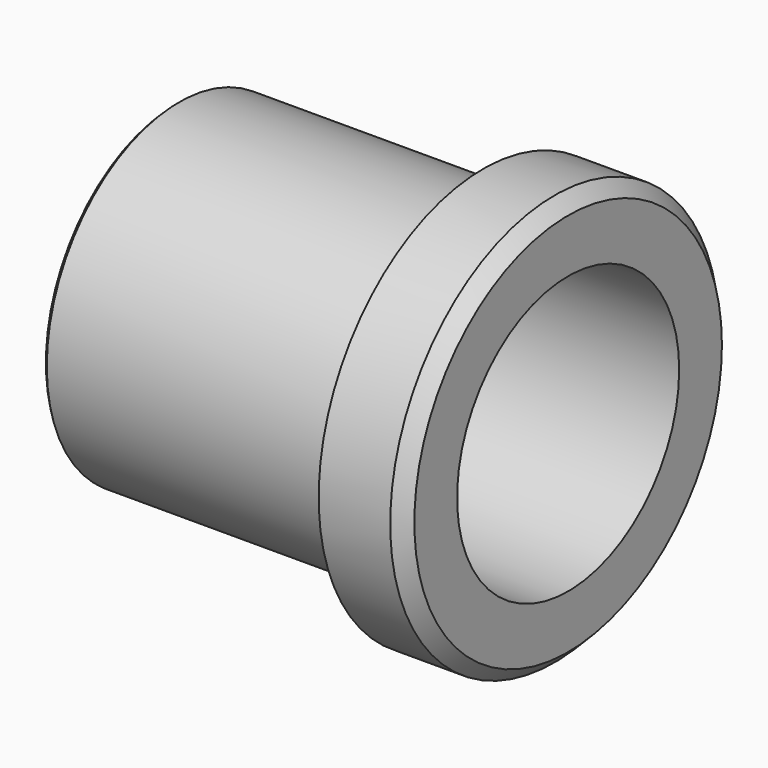
from build123d import *

# Parameters (mm, degrees)
F0_R     = 11.684
F0_R_2   = 9.40435
F0_R_3   = 7.8867
F1_DEPTH = 4.826
F2_DEPTH = 17.526
F3_SIZE  = 0.762
F4_SIZE  = 0.254


with BuildPart() as f1:
    # F0 (on Right) → F1 (new body)
    with BuildSketch(Plane.YZ):
        Circle(F0_R)
        Circle(F0_R_2, mode=Mode.SUBTRACT)
        Circle(F0_R_2)
        Circle(F0_R_3, mode=Mode.SUBTRACT)
    extrude(amount=F1_DEPTH)

    # F0 (on Right) → F2 (join)
    with BuildSketch(Plane.YZ):
        Circle(F0_R_2)
        Circle(F0_R_3, mode=Mode.SUBTRACT)
    extrude(amount=-F2_DEPTH)

    # F3
    f3_edges = [f1.edges().sort_by_distance(p)[0] for p in [
        (4.826, -11.684, 0),
    ]]
    chamfer(f3_edges, length=F3_SIZE)

    # F4
    f4_edges = [f1.edges().sort_by_distance(p)[0] for p in [
        (-17.526, -9.40435, 0),
    ]]
    chamfer(f4_edges, length=F4_SIZE)


solid = f1.part
